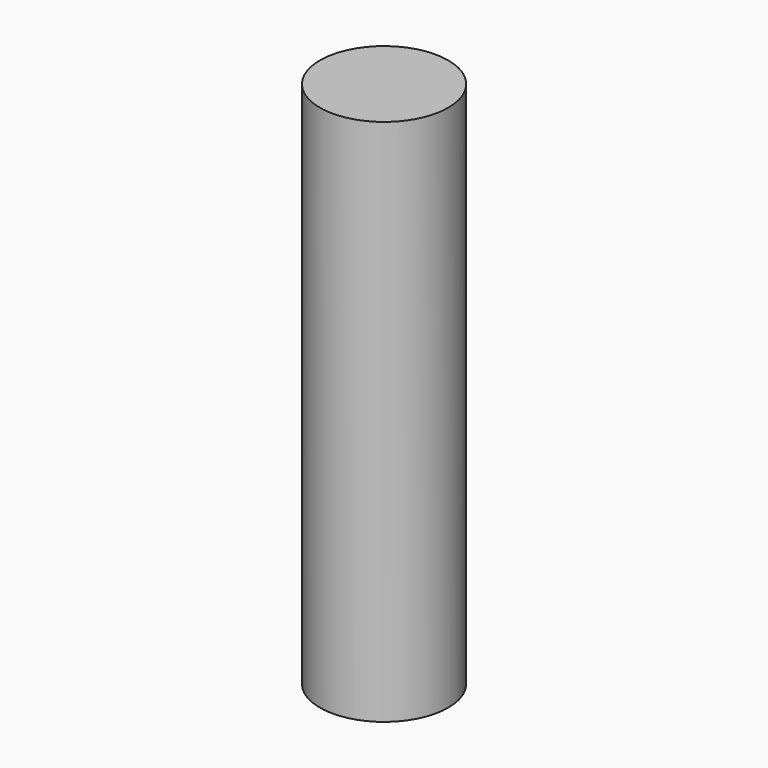
from build123d import *

# Parameters (mm, degrees)
CYLINDER_R     = 1.82245
CYLINDER_DEPTH = 15


with BuildPart() as part:
    # Cylinder → Cylinder (new body)
    with BuildSketch(Plane.XY.offset(-2.5)):
        Circle(CYLINDER_R)
    extrude(amount=CYLINDER_DEPTH)


solid = part.part
